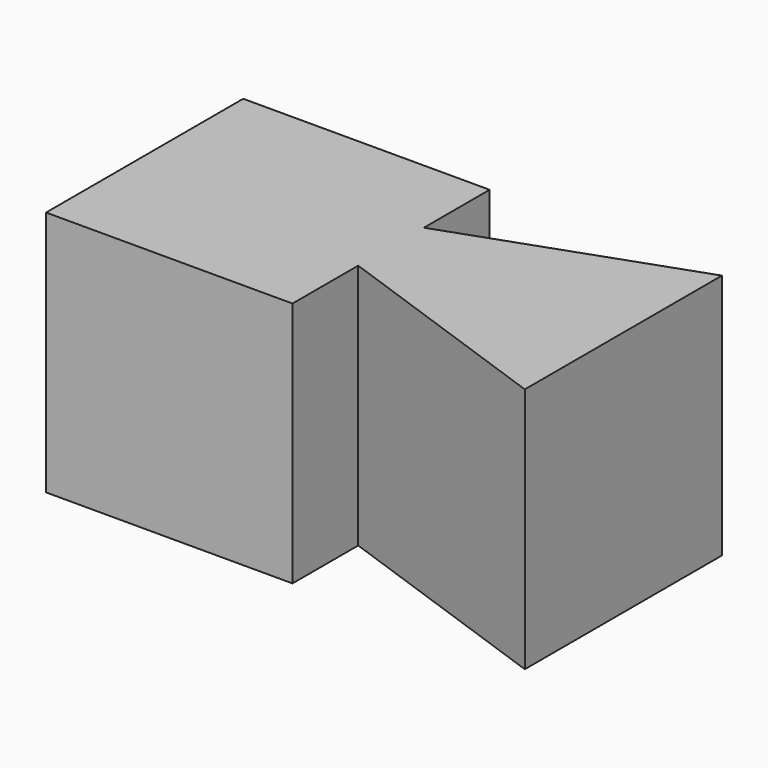
from build123d import *

# Parameters (mm, degrees)
F1_DEPTH = 76.2


with BuildPart() as f1:
    # F0 (on Top) → F1 (new body)
    with BuildSketch(Plane.XY):
        Polygon((0, 50.8), (0, 25.4), (71.842049, 0), (71.842049, 76.2), align=None)
        Polygon((-76.2, 76.2), (-76.2, 0), (0, 0), (0, 25.4), (0, 50.8), (0, 76.2), align=None)
        Polygon((0, 50.8), (0, 25.4), (71.842049, 0), (71.842049, 76.2), align=None)
    extrude(amount=-F1_DEPTH)


solid = f1.part
